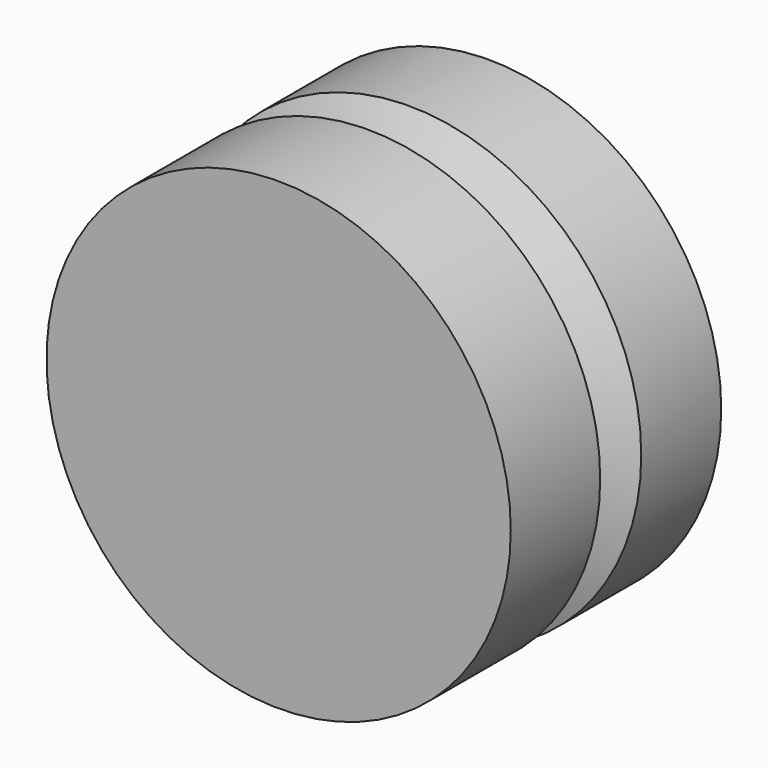
from build123d import *

# Parameters (mm, degrees)
F2_W     = 10.16
F2_H     = 17.78
F3_DEPTH = 12.7
F4_R     = 5.08
F5_R     = 3.777996
F6_DEPTH = 25.4


with BuildPart() as f1:
    # F0 (on Top) → F1 (revolve)
    with BuildSketch(Plane.XY):
        Polygon((0, 0), (38.1, 0), (38.1, 18.348159), (30.580265, 22.860002), (38.1, 26.770264), (38.1, 43.18), (0, 43.18), align=None)
    revolve(axis=Axis((0, 21.59, 0), (0, 1, 0)))

    # F2 (on face) → F3 (join)
    with BuildSketch(Plane(origin=(0, 43.18, 0), x_dir=(-1, 0, 0), z_dir=(0, 1, 0))):
        Rectangle(F2_W, F2_H)
    extrude(amount=F3_DEPTH)

    # F4
    f4_edges = [f1.edges().sort_by_distance(p)[0] for p in [
        (0, 55.88, 8.89),
        (0, 55.88, -8.89),
    ]]
    fillet(f4_edges, radius=F4_R)

    # F5 (on face) → F6 (cut)
    with BuildSketch(Plane.YZ.offset(5.08)):
        with Locations((48.678428, 0)):
            Circle(F5_R)
    extrude(amount=-F6_DEPTH, mode=Mode.SUBTRACT)


solid = f1.part
